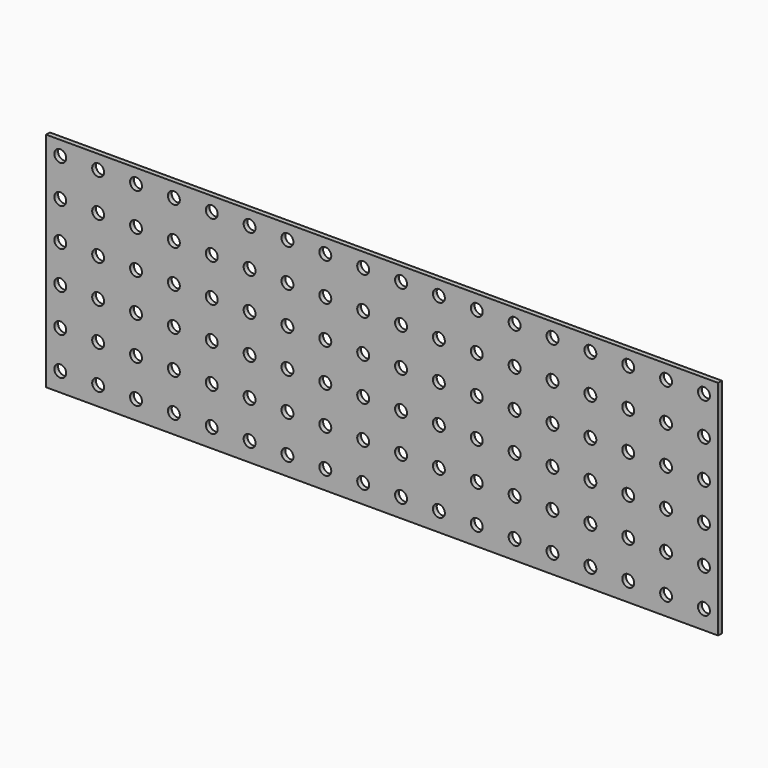
from build123d import *

# Parameters (mm, degrees)
F0_W     = 901.7
F0_H     = 298.45
F1_DEPTH = 3.175
F2_R     = 8.001
F3_DEPTH = 6.351


with BuildPart() as f1:
    # F0 (on Front) → F1 (new body, symmetric)
    with BuildSketch(Plane.XZ):
        Rectangle(F0_W, F0_H)
    extrude(amount=F1_DEPTH, both=True)

    # F2 (on face) → F3 (cut, through all)
    with BuildSketch(Plane.XZ.offset(3.175)):
        with Locations((-431.8, -123.825)):
            Circle(F2_R)
        with Locations((-431.8, -73.025)):
            Circle(F2_R)
        with Locations((-431.8, -22.225)):
            Circle(F2_R)
        with Locations((-431.8, 28.575)):
            Circle(F2_R)
        with Locations((-431.8, 79.375)):
            Circle(F2_R)
        with Locations((-431.8, 130.175)):
            Circle(F2_R)
        with Locations((-381, -123.825)):
            Circle(F2_R)
        with Locations((-381, -73.025)):
            Circle(F2_R)
        with Locations((-381, -22.225)):
            Circle(F2_R)
        with Locations((-381, 28.575)):
            Circle(F2_R)
        with Locations((-381, 79.375)):
            Circle(F2_R)
        with Locations((-381, 130.175)):
            Circle(F2_R)
        with Locations((-330.2, -123.825)):
            Circle(F2_R)
        with Locations((-330.2, -73.025)):
            Circle(F2_R)
        with Locations((-330.2, -22.225)):
            Circle(F2_R)
        with Locations((-330.2, 28.575)):
            Circle(F2_R)
        with Locations((-330.2, 79.375)):
            Circle(F2_R)
        with Locations((-330.2, 130.175)):
            Circle(F2_R)
        with Locations((-279.4, -123.825)):
            Circle(F2_R)
        with Locations((-279.4, -73.025)):
            Circle(F2_R)
        with Locations((-279.4, -22.225)):
            Circle(F2_R)
        with Locations((-279.4, 28.575)):
            Circle(F2_R)
        with Locations((-279.4, 79.375)):
            Circle(F2_R)
        with Locations((-279.4, 130.175)):
            Circle(F2_R)
        with Locations((-228.6, -123.825)):
            Circle(F2_R)
        with Locations((-228.6, -73.025)):
            Circle(F2_R)
        with Locations((-228.6, -22.225)):
            Circle(F2_R)
        with Locations((-228.6, 28.575)):
            Circle(F2_R)
        with Locations((-228.6, 79.375)):
            Circle(F2_R)
        with Locations((-228.6, 130.175)):
            Circle(F2_R)
        with Locations((-177.8, -123.825)):
            Circle(F2_R)
        with Locations((-177.8, -73.025)):
            Circle(F2_R)
        with Locations((-177.8, -22.225)):
            Circle(F2_R)
        with Locations((-177.8, 28.575)):
            Circle(F2_R)
        with Locations((-177.8, 79.375)):
            Circle(F2_R)
        with Locations((-177.8, 130.175)):
            Circle(F2_R)
        with Locations((-127, -123.825)):
            Circle(F2_R)
        with Locations((-127, -73.025)):
            Circle(F2_R)
        with Locations((-127, -22.225)):
            Circle(F2_R)
        with Locations((-127, 28.575)):
            Circle(F2_R)
        with Locations((-127, 79.375)):
            Circle(F2_R)
        with Locations((-127, 130.175)):
            Circle(F2_R)
        with Locations((-76.2, -123.825)):
            Circle(F2_R)
        with Locations((-76.2, -73.025)):
            Circle(F2_R)
        with Locations((-76.2, -22.225)):
            Circle(F2_R)
        with Locations((-76.2, 28.575)):
            Circle(F2_R)
        with Locations((-76.2, 79.375)):
            Circle(F2_R)
        with Locations((-76.2, 130.175)):
            Circle(F2_R)
        with Locations((-25.4, -123.825)):
            Circle(F2_R)
        with Locations((-25.4, -73.025)):
            Circle(F2_R)
        with Locations((-25.4, -22.225)):
            Circle(F2_R)
        with Locations((-25.4, 28.575)):
            Circle(F2_R)
        with Locations((-25.4, 79.375)):
            Circle(F2_R)
        with Locations((-25.4, 130.175)):
            Circle(F2_R)
        with Locations((25.4, -123.825)):
            Circle(F2_R)
        with Locations((25.4, -73.025)):
            Circle(F2_R)
        with Locations((25.4, -22.225)):
            Circle(F2_R)
        with Locations((25.4, 28.575)):
            Circle(F2_R)
        with Locations((25.4, 79.375)):
            Circle(F2_R)
        with Locations((25.4, 130.175)):
            Circle(F2_R)
        with Locations((76.2, -123.825)):
            Circle(F2_R)
        with Locations((76.2, -73.025)):
            Circle(F2_R)
        with Locations((76.2, -22.225)):
            Circle(F2_R)
        with Locations((76.2, 28.575)):
            Circle(F2_R)
        with Locations((76.2, 79.375)):
            Circle(F2_R)
        with Locations((76.2, 130.175)):
            Circle(F2_R)
        with Locations((127, -123.825)):
            Circle(F2_R)
        with Locations((127, -73.025)):
            Circle(F2_R)
        with Locations((127, -22.225)):
            Circle(F2_R)
        with Locations((127, 28.575)):
            Circle(F2_R)
        with Locations((127, 79.375)):
            Circle(F2_R)
        with Locations((127, 130.175)):
            Circle(F2_R)
        with Locations((177.8, -123.825)):
            Circle(F2_R)
        with Locations((177.8, -73.025)):
            Circle(F2_R)
        with Locations((177.8, -22.225)):
            Circle(F2_R)
        with Locations((177.8, 28.575)):
            Circle(F2_R)
        with Locations((177.8, 79.375)):
            Circle(F2_R)
        with Locations((177.8, 130.175)):
            Circle(F2_R)
        with Locations((228.6, -123.825)):
            Circle(F2_R)
        with Locations((228.6, -73.025)):
            Circle(F2_R)
        with Locations((228.6, -22.225)):
            Circle(F2_R)
        with Locations((228.6, 28.575)):
            Circle(F2_R)
        with Locations((228.6, 79.375)):
            Circle(F2_R)
        with Locations((228.6, 130.175)):
            Circle(F2_R)
        with Locations((279.4, -123.825)):
            Circle(F2_R)
        with Locations((279.4, -73.025)):
            Circle(F2_R)
        with Locations((279.4, -22.225)):
            Circle(F2_R)
        with Locations((279.4, 28.575)):
            Circle(F2_R)
        with Locations((279.4, 79.375)):
            Circle(F2_R)
        with Locations((279.4, 130.175)):
            Circle(F2_R)
        with Locations((330.2, -123.825)):
            Circle(F2_R)
        with Locations((330.2, -73.025)):
            Circle(F2_R)
        with Locations((330.2, -22.225)):
            Circle(F2_R)
        with Locations((330.2, 28.575)):
            Circle(F2_R)
        with Locations((330.2, 79.375)):
            Circle(F2_R)
        with Locations((330.2, 130.175)):
            Circle(F2_R)
        with Locations((381, -123.825)):
            Circle(F2_R)
        with Locations((381, -73.025)):
            Circle(F2_R)
        with Locations((381, -22.225)):
            Circle(F2_R)
        with Locations((381, 28.575)):
            Circle(F2_R)
        with Locations((381, 79.375)):
            Circle(F2_R)
        with Locations((381, 130.175)):
            Circle(F2_R)
        with Locations((431.8, -123.825)):
            Circle(F2_R)
        with Locations((431.8, -73.025)):
            Circle(F2_R)
        with Locations((431.8, -22.225)):
            Circle(F2_R)
        with Locations((431.8, 28.575)):
            Circle(F2_R)
        with Locations((431.8, 79.375)):
            Circle(F2_R)
        with Locations((431.8, 130.175)):
            Circle(F2_R)
    extrude(amount=-F3_DEPTH, mode=Mode.SUBTRACT)


solid = f1.part
